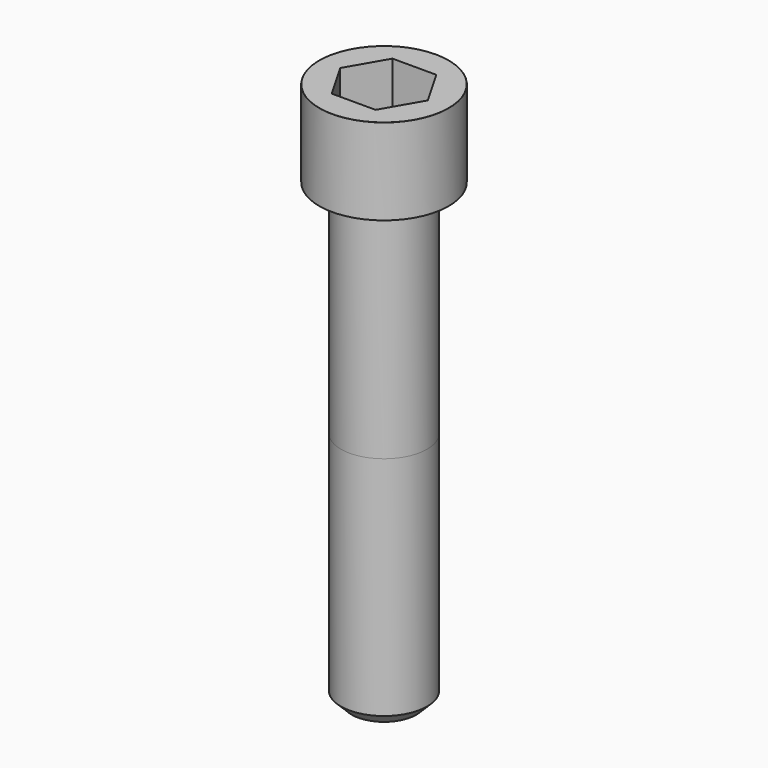
from build123d import *

# Parameters (mm, degrees)
POCKET_DEPTH = 14.08


with BuildPart() as part:
    # Sketch → Revolve (revolve)
    with BuildSketch(Plane.YZ):
        with BuildLine():
            Line((7.999, 0), (12, 0))
            Line((12, 0), (12, 15.97229))
            ThreePointArc((12, 15.97229), (11.991884, 15.991884), (11.97229, 16))
            Line((11.97229, 16), (0, 16))
            Line((0, -85), (0, 16))
            Line((6, -85), (0, -85))
            Line((8, -83), (6, -85))
            Line((8, -41), (8, -83))
            Line((7.999, 0), (8, -41))
        make_face()
    revolve(axis=Axis((0, 0, 0), (0, 0, 1)))

    # Sketch001 → Pocket (cut)
    with BuildSketch(Plane.XY.offset(16)):
        Polygon((8.129092, 0), (4.064546, 7.04), (-4.064546, 7.04), (-8.129092, 0), (-4.064546, -7.04), (4.064546, -7.04), align=None)
    extrude(amount=-POCKET_DEPTH, mode=Mode.SUBTRACT)


solid = part.part
